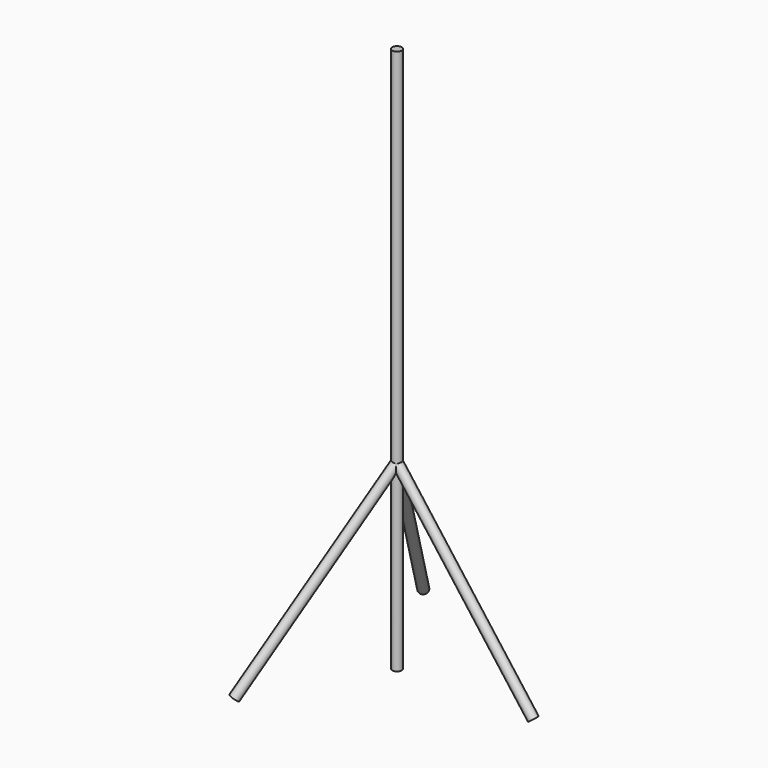
from build123d import *

# Parameters (mm, degrees)
F0_R     = 15.875
F1_DEPTH = 1828.8
F4_R     = 15.875
F6_COUNT = 3


with BuildPart() as f1:
    # F0 (on Top) → F1 (new body)
    with BuildSketch(Plane.XY):
        Circle(F0_R)
    extrude(amount=F1_DEPTH)

    # F5: sweep along a path in F2
    with BuildLine(Plane.XZ) as f5_path:
        Line((0, 609.6), (457.2, 0))
    # F4 (on face) → F5 (sweep)
    with BuildSketch(Plane(origin=(164.592, 0, -219.456), x_dir=(0.8, 0, 0.6), z_dir=(0.6, 0, -0.8))):
        with Locations((365.76, 0)):
            Circle(F4_R)
    sweep(path=f5_path.line)

    # F6: F1 ×3 about axis
    f6_axis = Axis((0, 0, 0), (0, 0, -1))


with BuildPart() as f1_1:
    add(f1.part)
    for i in range(1, F6_COUNT):
        add(f1.part.rotate(f6_axis, i * 360 / F6_COUNT))


solid = f1_1.part
